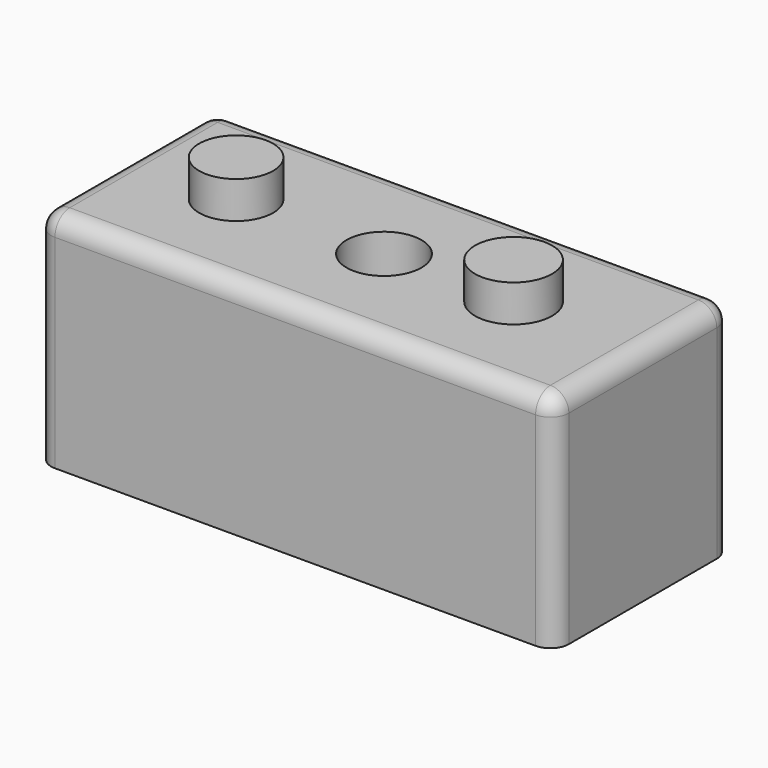
from build123d import *

# Parameters (mm, degrees)
F0_W     = 140
F0_H     = 60
F1_DEPTH = 60
F2_R     = 10
F5_DEPTH = 10
F4_R     = 10.13292
F6_DEPTH = 175
F3_R     = 10.418287
F7_DEPTH = 10
F8_R     = 5


with BuildPart() as f1:
    # F0 (on Top) → F1 (new body)
    with BuildSketch(Plane.XY):
        Rectangle(F0_W, F0_H)
    extrude(amount=F1_DEPTH)

    # F2 (on face) → F5 (join)
    with BuildSketch(Plane.XY.offset(60)):
        with Locations((-40, 0)):
            Circle(F2_R)
    extrude(amount=F5_DEPTH)

    # F4 (on face) → F6 (cut)
    with BuildSketch(Plane.XY.offset(60)):
        Circle(F4_R)
    extrude(amount=-F6_DEPTH, mode=Mode.SUBTRACT)

    # F3 (on face) → F7 (join)
    with BuildSketch(Plane.XY.offset(60)):
        with Locations((35.042234, 0)):
            Circle(F3_R)
    extrude(amount=F7_DEPTH)

    # F8
    f8_edges = [f1.edges().sort_by_distance(p)[0] for p in [
        (0, 30, 60),
        (70, 0, 60),
        (0, -30, 60),
        (-70, 0, 60),
        (-70, 30, 30),
        (-70, -30, 30),
        (70, -30, 30),
        (70, 30, 30),
    ]]
    fillet(f8_edges, radius=F8_R)


solid = f1.part
